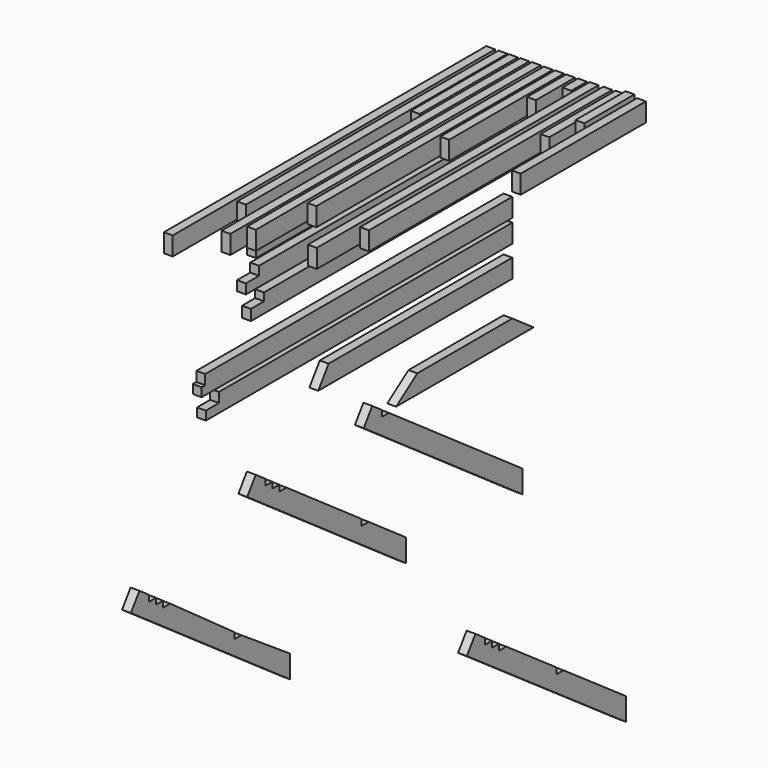
from build123d import *

# Parameters (mm, degrees)
F0_W      = 45
F0_H      = 95
F1_DEPTH  = 2060
F2_W      = 45
F2_H      = 95
F3_DEPTH  = 1670
F4_W      = 45
F4_H      = 95
F5_DEPTH  = 627
F6_W      = 45
F6_H      = 95
F7_DEPTH  = 1910
F8_W      = 45
F8_H      = 95
F10_DEPTH = 1820
F9_W      = 45
F9_H      = 95
F11_DEPTH = 1510
F12_W     = 45
F12_H     = 95
F14_DEPTH = 733
F13_W     = 45
F13_H     = 95
F15_DEPTH = 250
F16_W     = 45
F16_H     = 95
F17_DEPTH = 100
F18_W     = 45
F18_H     = 95
F20_DEPTH = 1800
F19_W     = 45
F19_H     = 95
F21_DEPTH = 1554
F23_DEPTH = 45
F25_DEPTH = 45
F26_DEPTH = 5
F27_DEPTH = 5
F29_DEPTH = 45
F31_DEPTH = 45
F32_W     = 45
F32_H     = 95
F33_DEPTH = 480
F34_DEPTH = 5
F35_DEPTH = 5
F37_DEPTH = 45
F38_W     = 45
F38_H     = 95
F40_DEPTH = 320
F39_W     = 45
F39_H     = 95
F41_DEPTH = 800
F43_DEPTH = 45
F46_DEPTH = 45
F47_DEPTH = 45
F49_DEPTH = 45


with BuildPart() as f1:
    # F0 (on Front) → F1 (new body)
    with BuildSketch(Plane.XZ):
        with Locations((-65.1652917266, 60.7334716618)):
            Rectangle(F0_W, F0_H)
    extrude(amount=F1_DEPTH)


with BuildPart() as f3:
    # F2 (on Front) → F3 (new body)
    with BuildSketch(Plane.XZ):
        with Locations((-2.6481477171, 61.2016577646)):
            Rectangle(F2_W, F2_H)
    extrude(amount=F3_DEPTH)


with BuildPart() as f5:
    # F4 (on Front) → F5 (new body)
    with BuildSketch(Plane.XZ):
        with Locations((50.708630085, 62.2210871801)):
            Rectangle(F4_W, F4_H)
    extrude(amount=F5_DEPTH)


with BuildPart() as f7:
    # F6 (on Front) → F7 (new body)
    with BuildSketch(Plane.XZ):
        with Locations((109.135299027, 63.2982166857)):
            Rectangle(F6_W, F6_H)
    extrude(amount=F7_DEPTH)


with BuildPart() as f10:
    # F8 (on Front) → F10 (new body)
    with BuildSketch(Plane.XZ):
        with Locations((167.9542428255, 64.4452819973)):
            Rectangle(F8_W, F8_H)
    extrude(amount=F10_DEPTH)


with BuildPart() as f11:
    # F9 (on Front) → F11 (new body)
    with BuildSketch(Plane.XZ):
        with Locations((229.06876266, 64.4452819973)):
            Rectangle(F9_W, F9_H)
    extrude(amount=F11_DEPTH)


with BuildPart() as f14:
    # F12 (on Front) → F14 (new body)
    with BuildSketch(Plane.XZ):
        with Locations((286.1079359055, 65.9090528637)):
            Rectangle(F12_W, F12_H)
    extrude(amount=F14_DEPTH)


with BuildPart() as f15:
    # F13 (on Front) → F15 (new body)
    with BuildSketch(Plane.XZ):
        with Locations((342.9496204853, 66.2910441309)):
            Rectangle(F13_W, F13_H)
    extrude(amount=F15_DEPTH)


with BuildPart() as f17:
    # F16 (on Front) → F17 (new body)
    with BuildSketch(Plane.XZ):
        with Locations((403.7870085239, 67.5900323689)):
            Rectangle(F16_W, F16_H)
    extrude(amount=F17_DEPTH)


with BuildPart() as f20:
    # F18 (on Front) → F20 (new body)
    with BuildSketch(Plane.XZ):
        with Locations((463.072232008, 70.9092958272)):
            Rectangle(F18_W, F18_H)
    extrude(amount=F20_DEPTH)


with BuildPart() as f21:
    # F19 (on Front) → F21 (new body)
    with BuildSketch(Plane.XZ):
        with Locations((532.9907751083, 72.7492576838)):
            Rectangle(F19_W, F19_H)
    extrude(amount=F21_DEPTH)


with BuildPart() as f23:
    # F22 (on Right) → F23 (new body)
    with BuildSketch(Plane.YZ):
        Polygon((-1638, -136.78124547), (0, -136.78124547), (0, -46.78124547), (-1554, -46.78124547), (-1554, -91.78124547), (-1638, -91.78124547), align=None)
    extrude(amount=F23_DEPTH)

    # F26 (add): a face of the model
    f26_faces = [f23.faces().sort_by_distance(p)[0] for p in [
        (22.5, -777, -46.78124547),
    ]]
    extrude(f26_faces, amount=F26_DEPTH)


with BuildPart() as f25:
    # F24 (on Right) → F25 (new body)
    with BuildSketch(Plane.YZ):
        Polygon((0, -407.274633646), (0, -312.274633646), (-1586, -312.274633646), (-1586, -357.274633646), (-1670, -357.274633646), (-1670, -407.274633646), align=None)
    extrude(amount=F25_DEPTH)

    # F27 (add): a face of the model
    f27_faces = [f25.faces().sort_by_distance(p)[0] for p in [
        (22.5, -1628, -357.274633646),
    ]]
    extrude(f27_faces, amount=F27_DEPTH)

    # F34 (add): a face of the model
    f34_faces = [f25.faces().sort_by_distance(p)[0] for p in [
        (22.5, -1628, -352.274633646),
    ]]
    extrude(f34_faces, amount=-F34_DEPTH)

    # F35 (add): a face of the model
    f35_faces = [f25.faces().sort_by_distance(p)[0] for p in [
        (22.5, -1628, -352.274633646),
    ]]
    extrude(f35_faces, amount=-F35_DEPTH)


with BuildPart() as f29:
    # F28 (on Right) → F29 (new body)
    with BuildSketch(Plane.YZ):
        Polygon((0, -274.3932902813), (0, -179.3932902813), (-1618, -179.3932902813), (-1618, -224.3932902813), (-1702, -224.3932902813), (-1702, -274.3932902813), align=None)
    extrude(amount=F29_DEPTH)


with BuildPart() as f31:
    # F30 (on Right) → F31 (new body)
    with BuildSketch(Plane.YZ):
        Polygon((0, -621.7302680016), (0, -526.7302680016), (-1962, -526.7302680016), (-1962, -576.7302680016), (-1985, -576.7302680016), (-1985, -621.7302680016), align=None)
    extrude(amount=F31_DEPTH)


with BuildPart() as f33:
    # F32 (on Front) → F33 (new body)
    with BuildSketch(Plane.XZ):
        with Locations((595.4729533195, 75.1294462383)):
            Rectangle(F32_W, F32_H)
    extrude(amount=F33_DEPTH)


with BuildPart() as f37:
    # F36 (on Right) → F37 (new body)
    with BuildSketch(Plane.YZ):
        Polygon((0, -737.8901839256), (0, -642.8901839256), (-1874, -642.8901839256), (-1874, -692.8901839256), (-1958, -692.8901839256), (-1958, -737.8901839256), align=None)
    extrude(amount=F37_DEPTH)


with BuildPart() as f40:
    # F38 (on Front) → F40 (new body)
    with BuildSketch(Plane.XZ):
        with Locations((646.3923239708, 89.3315157294)):
            Rectangle(F38_W, F38_H)
    extrude(amount=F40_DEPTH)


with BuildPart() as f41:
    # F39 (on Front) → F41 (new body)
    with BuildSketch(Plane.XZ):
        with Locations((705.3681993484, 77.1294745058)):
            Rectangle(F39_W, F39_H)
    extrude(amount=F41_DEPTH)


with BuildPart() as f43:
    # F42 (on Right) → F43 (new body)
    with BuildSketch(Plane.YZ):
        Polygon((0, -895.4758358002), (0, -800.4758358002), (-1173.492193222, -800.4758358002), (-1240, -895.4758358002), align=None)
    extrude(amount=F43_DEPTH)


with BuildPart() as f46:
    # F45 (on Right) → F46 (new body)
    with BuildSketch(Plane.YZ):
        Polygon((0, -1074.2228031158), (-607, -1074.2228031158), (-742.6740606405, -1169.2228031158), (-607, -1169.2228031158), (135.6740606405, -1169.2228031158), align=None)
    extrude(amount=F46_DEPTH)


with BuildPart() as f47:
    # F44 (on Right) → F47 (new body)
    with BuildSketch(Plane.YZ):
        Polygon((-894.810178936, -1103.9144259572), (-949.2999403894, -1181.7338701647), (66.448594529, -1892.96865124), (66.448594529, -1776.9950653076), (-173.551405471, -1608.9452561373), (-218.551405471, -1577.4359169179), (-788.551405471, -1178.3176201383), (-833.551405471, -1178.3176201383), (-833.551405471, -1146.8082809189), align=None)
    extrude(amount=F47_DEPTH)


with BuildPart() as f47b:
    # F44 (on Right) → F47, piece 2 (new body)
    with BuildSketch(Plane.YZ):
        Polygon((-1639.2352284377, -1110.9594330508), (-1693.7249898911, -1188.7788772583), (-677.9764549727, -1900.0136583336), (-677.9764549727, -1784.0400724013), (-917.9764549727, -1615.9902632309), (-962.9764549727, -1615.9902632309), (-962.9764549727, -1584.4809240115), (-1442.9764549727, -1248.3813056708), (-1487.9764549727, -1248.3813056708), (-1487.9764549727, -1216.8719664514), (-1532.9764549727, -1216.8719664514), (-1532.9764549727, -1185.362627232), (-1577.9764549727, -1185.362627232), (-1577.9764549727, -1153.8532880125), align=None)
    extrude(amount=F47_DEPTH)


with BuildPart() as f47c:
    # F44 (on Right) → F47, piece 3 (new body)
    with BuildSketch(Plane.YZ):
        Polygon((-2382.2874218827, -1330.8382493139), (-2436.777183336, -1408.6576935213), (-1421.0286484177, -2119.8924745966), (-1421.0286484177, -2003.9188886643), (-1731.0286484177, -1795.3871488571), (-1776.0286484177, -1795.3871488571), (-1776.0286484177, -1763.0339264142), (-2186.0286484177, -1468.2601219338), (-2231.0286484177, -1468.2601219338), (-2231.0286484177, -1436.7507827144), (-2276.0286484177, -1436.7507827144), (-2276.0286484177, -1405.241443495), (-2321.0286484177, -1405.241443495), (-2321.0286484177, -1373.7321042755), align=None)
    extrude(amount=F47_DEPTH)


with BuildPart() as f49:
    # F48 (on Right) → F49 (new body)
    with BuildSketch(Plane.YZ):
        Polygon((-290.1412724141, -2475.1386475671), (726.7558623421, -3184.7302324415), (726.6930590229, -3068.8438161276), (326.6930590229, -2789.7235155106), (281.6930590229, -2789.7235155106), (281.6930590229, -2758.3224816911), (-39.2601053822, -2534.3611223593), (-84.2601053822, -2534.3611223593), (-84.2601053822, -2502.9600885399), (-129.2601053822, -2502.9600885399), (-129.2601053822, -2471.5590547205), (-174.2601053822, -2471.5590547205), (-174.2601053822, -2440.1580209011), (-235.7774009923, -2397.2312057915), align=None)
    extrude(amount=F49_DEPTH)


solid = Compound([f1.part, f3.part, f5.part, f7.part, f10.part, f11.part, f14.part, f15.part, f17.part, f20.part, f21.part, f23.part, f25.part, f29.part, f31.part, f33.part, f37.part, f40.part, f41.part, f43.part, f46.part, f47.part, f47b.part, f47c.part, f49.part])
